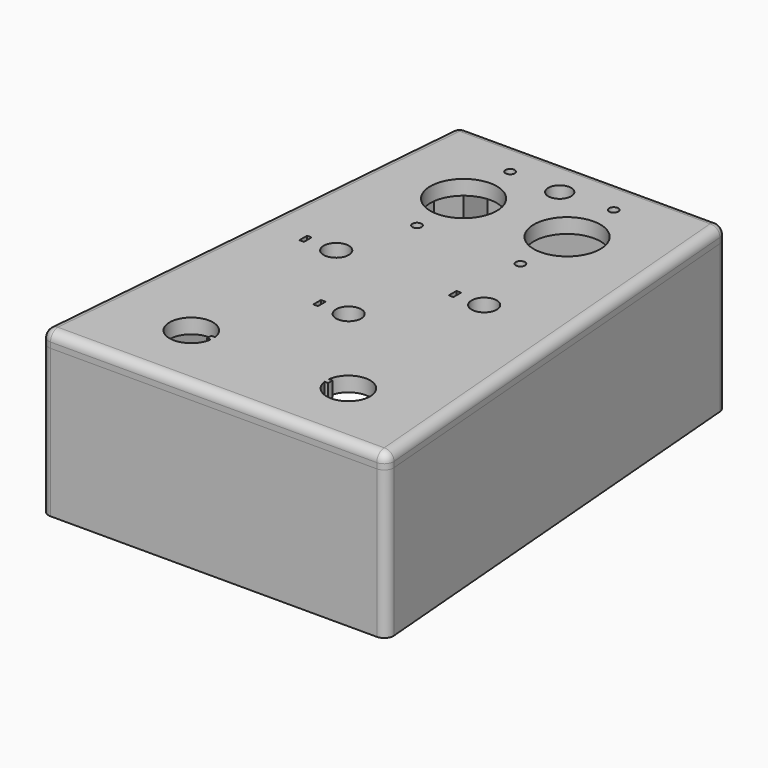
from build123d import *

# Parameters (mm, degrees)
F1_DEPTH = 36
F0_W     = 1.25
F0_H     = 2.6
F0_R     = 3.4
F0_R_2   = 1.25
F0_R_3   = 9
F0_R_4   = 3.1
F0_R_5   = 1.675
F2_DEPTH = 4
F3_DEPTH = 40
F4_R     = 2.5
F4_2_R   = 2.5
F4_3_R   = 2.5


with BuildPart() as f1:
    # F0 (on Top) → F1 (new body)
    with BuildSketch(Plane.XY):
        Polygon((-36.1805315263, 124), (-46.8471981929, -4), (0, -4), (46.8471981929, -4), (36.1805315263, 124), (0, 124), align=None)
        Polygon((42.5, 0), (0, 0), (-42.5, 0), (-33.1666666667, 112), (-32.5, 120), (-25.1666666667, 120), (25.1666666667, 120), (32.5, 120), (33.1666666667, 112), align=None, mode=Mode.SUBTRACT)
    extrude(amount=-F1_DEPTH)

    # F4#3
    f4_3_edges = [f1.edges().sort_by_distance(p)[0] for p in [
        (-36.180532, 124, -18),
        (-46.847198, -4, -18),
        (46.847198, -4, -18),
        (36.180532, 124, -18),
    ]]
    fillet(f4_3_edges, radius=F4_3_R)


with BuildPart() as f2:
    # F0 (on Top) → F2 (new body)
    with BuildSketch(Plane.XY):
        Polygon((-36.1805315263, 124), (-46.8471981929, -4), (0, -4), (46.8471981929, -4), (36.1805315263, 124), (0, 124), align=None)
        Polygon((42.5, 0), (0, 0), (-42.5, 0), (-33.1666666667, 112), (-32.5, 120), (-25.1666666667, 120), (25.1666666667, 120), (32.5, 120), (33.1666666667, 112), align=None, mode=Mode.SUBTRACT)
        Polygon((-42.5, 0), (0, 0), (42.5, 0), (33.1666666667, 112), (25.1666666667, 112), (25.1666666667, 120), (-25.1666666667, 120), (-25.1666666667, 112), (-33.1666666667, 112), align=None)
        with BuildLine():
            ThreePointArc((-15.4220582608, 14.2578948289), (-27.1249883777, 15.0116859919), (-15.4191521334, 15.7189145684))
            Line((-15.4191521334, 15.7189145684), (-16.3799338043, 15.7189145684))
            Line((-16.3799338043, 15.7189145684), (-16.3799338043, 15))
            Line((-16.3799338043, 15), (-16.3799338043, 14.2578948289))
            Line((-16.3799338043, 14.2578948289), (-15.4220582608, 14.2578948289))
        make_face(mode=Mode.SUBTRACT)
        with Locations((-7.9, 41.6447357833)):
            Rectangle(F0_W, F0_H, mode=Mode.SUBTRACT)
        with Locations((0, 41.6447357833)):
            Circle(F0_R, mode=Mode.SUBTRACT)
        with BuildLine():
            Line((16.3799338043, 15.7189145684), (15.4191521334, 15.7189145684))
            ThreePointArc((15.4191521334, 15.7189145684), (27.1249883777, 15.0116859919), (15.4220582608, 14.2578948289))
            Line((15.4220582608, 14.2578948289), (16.3799338043, 14.2578948289))
            Line((16.3799338043, 14.2578948289), (16.3799338043, 15))
            Line((16.3799338043, 15), (16.3799338043, 15.7189145684))
        make_face(mode=Mode.SUBTRACT)
        with Locations((-28.5701850802, 62.7685887098)):
            Rectangle(F0_W, F0_H, mode=Mode.SUBTRACT)
        with Locations((-20.210525021, 62.7000020444)):
            Circle(F0_R, mode=Mode.SUBTRACT)
        with Locations((-14, 82.25)):
            Circle(F0_R_2, mode=Mode.SUBTRACT)
        with Locations((-14, 98)):
            Circle(F0_R_3, mode=Mode.SUBTRACT)
        with Locations((-14, 113.75)):
            Circle(F0_R_2, mode=Mode.SUBTRACT)
        with Locations((0, 113)):
            Circle(F0_R_4, mode=Mode.SUBTRACT)
        with Locations((11.8508649617, 62.7685887098)):
            Rectangle(F0_W, F0_H, mode=Mode.SUBTRACT)
        with Locations((19.8075663388, 62.7000020444)):
            Circle(F0_R, mode=Mode.SUBTRACT)
        with Locations((14, 82.1999993622)):
            Circle(F0_R_2, mode=Mode.SUBTRACT)
        with Locations((14, 98)):
            Circle(F0_R_3, mode=Mode.SUBTRACT)
        with Locations((14, 113.75)):
            Circle(F0_R_2, mode=Mode.SUBTRACT)
        Polygon((-42.5, 0), (0, 0), (42.5, 0), (33.1666666667, 112), (25.1666666667, 112), (25.1666666667, 120), (-25.1666666667, 120), (-25.1666666667, 112), (-33.1666666667, 112), align=None)
        with BuildLine():
            ThreePointArc((-15.4220582608, 14.2578948289), (-27.1249883777, 15.0116859919), (-15.4191521334, 15.7189145684))
            Line((-15.4191521334, 15.7189145684), (-16.3799338043, 15.7189145684))
            Line((-16.3799338043, 15.7189145684), (-16.3799338043, 15))
            Line((-16.3799338043, 15), (-16.3799338043, 14.2578948289))
            Line((-16.3799338043, 14.2578948289), (-15.4220582608, 14.2578948289))
        make_face(mode=Mode.SUBTRACT)
        with Locations((-7.9, 41.6447357833)):
            Rectangle(F0_W, F0_H, mode=Mode.SUBTRACT)
        with Locations((0, 41.6447357833)):
            Circle(F0_R, mode=Mode.SUBTRACT)
        with BuildLine():
            Line((16.3799338043, 15.7189145684), (15.4191521334, 15.7189145684))
            ThreePointArc((15.4191521334, 15.7189145684), (27.1249883777, 15.0116859919), (15.4220582608, 14.2578948289))
            Line((15.4220582608, 14.2578948289), (16.3799338043, 14.2578948289))
            Line((16.3799338043, 14.2578948289), (16.3799338043, 15))
            Line((16.3799338043, 15), (16.3799338043, 15.7189145684))
        make_face(mode=Mode.SUBTRACT)
        with Locations((-28.5701850802, 62.7685887098)):
            Rectangle(F0_W, F0_H, mode=Mode.SUBTRACT)
        with Locations((-20.210525021, 62.7000020444)):
            Circle(F0_R, mode=Mode.SUBTRACT)
        with Locations((-14, 82.25)):
            Circle(F0_R_2, mode=Mode.SUBTRACT)
        with Locations((-14, 98)):
            Circle(F0_R_3, mode=Mode.SUBTRACT)
        with Locations((-14, 113.75)):
            Circle(F0_R_2, mode=Mode.SUBTRACT)
        with Locations((0, 113)):
            Circle(F0_R_4, mode=Mode.SUBTRACT)
        with Locations((11.8508649617, 62.7685887098)):
            Rectangle(F0_W, F0_H, mode=Mode.SUBTRACT)
        with Locations((19.8075663388, 62.7000020444)):
            Circle(F0_R, mode=Mode.SUBTRACT)
        with Locations((14, 82.1999993622)):
            Circle(F0_R_2, mode=Mode.SUBTRACT)
        with Locations((14, 98)):
            Circle(F0_R_3, mode=Mode.SUBTRACT)
        with Locations((14, 113.75)):
            Circle(F0_R_2, mode=Mode.SUBTRACT)
        Polygon((-32.5, 120), (-33.1666666667, 112), (-25.1666666667, 112), (-25.1666666667, 120), align=None)
        with Locations((-28.9927536232, 116.1739130435)):
            Circle(F0_R_5, mode=Mode.SUBTRACT)
        Polygon((25.1666666667, 112), (33.1666666667, 112), (32.5, 120), (25.1666666667, 120), align=None)
        with Locations((28.9927536232, 116.1739130435)):
            Circle(F0_R_5, mode=Mode.SUBTRACT)
        with Locations((28.9927536232, 116.1739130435)):
            Circle(F0_R_5)
        with Locations((-28.9927536232, 116.1739130435)):
            Circle(F0_R_5)
    extrude(amount=F2_DEPTH)

    # F4
    f4_edges = [f2.edges().sort_by_distance(p)[0] for p in [
        (-46.847198, -4, 2),
        (46.847198, -4, 2),
        (-36.180532, 124, 2),
        (36.180532, 124, 2),
        (0, 124, 4),
        (41.513865, 60, 4),
        (0, -4, 4),
        (-41.513865, 60, 4),
    ]]
    fillet(f4_edges, radius=F4_R)


with BuildPart() as f3:
    # F0 (on Top) → F3 (new body)
    with BuildSketch(Plane.XY):
        Polygon((-36.1805315263, 124), (-46.8471981929, -4), (0, -4), (46.8471981929, -4), (36.1805315263, 124), (0, 124), align=None)
        Polygon((42.5, 0), (0, 0), (-42.5, 0), (-33.1666666667, 112), (-32.5, 120), (-25.1666666667, 120), (25.1666666667, 120), (32.5, 120), (33.1666666667, 112), align=None, mode=Mode.SUBTRACT)
        Polygon((25.1666666667, 112), (33.1666666667, 112), (32.5, 120), (25.1666666667, 120), align=None)
        with Locations((28.9927536232, 116.1739130435)):
            Circle(F0_R_5, mode=Mode.SUBTRACT)
        Polygon((-32.5, 120), (-33.1666666667, 112), (-25.1666666667, 112), (-25.1666666667, 120), align=None)
        with Locations((-28.9927536232, 116.1739130435)):
            Circle(F0_R_5, mode=Mode.SUBTRACT)
    extrude(amount=-F3_DEPTH)

    # F4#2
    f4_2_edges = [f3.edges().sort_by_distance(p)[0] for p in [
        (-46.847198, -4, -20),
        (46.847198, -4, -20),
        (-36.180532, 124, -20),
        (36.180532, 124, -20),
    ]]
    fillet(f4_2_edges, radius=F4_2_R)


solid = Compound([f1.part, f2.part, f3.part])
